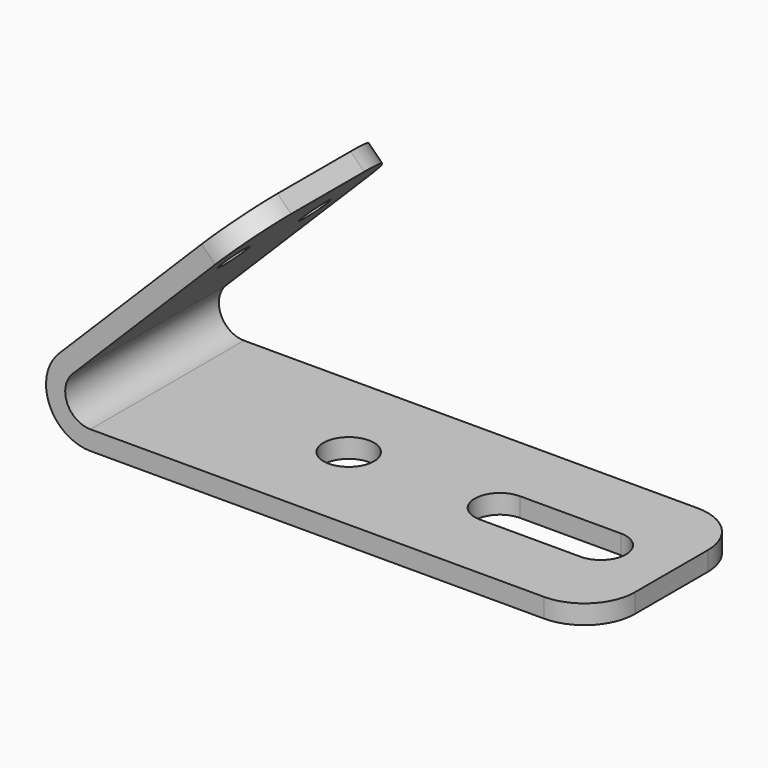
from build123d import *

# Parameters (mm, degrees)
F1_DEPTH = 9.525
F2_R     = 2.5
F3_DEPTH = 25
F4_R     = 1.5
F5_DEPTH = 1.9
F6_R     = 5


with BuildPart() as f1:
    # F0 (on Front) → F1 (new body, symmetric)
    with BuildSketch(Plane.XZ):
        with BuildLine():
            Line((0, -1.9), (0, 0))
            Line((0, 0), (-50, 0))
            ThreePointArc((-50, 0), (-52.3096988313, 1.5432914191), (-51.767766953, 4.267766953))
            Line((-51.767766953, 4.267766953), (-34.0900974233, 21.9454364826))
            Line((-34.0900974233, 21.9454364826), (-35.4336003076, 23.2889393669))
            Line((-35.4336003076, 23.2889393669), (-53.1112698372, 5.6112698372))
            ThreePointArc((-53.1112698372, 5.6112698372), (-54.065069943, 0.8161928976), (-50, -1.9))
            Line((-50, -1.9), (0, -1.9))
        make_face()
    extrude(amount=F1_DEPTH, both=True)

    # F2 (on face) → F3 (cut)
    with BuildSketch(Plane.XY):
        with Locations((-32, 0)):
            Circle(F2_R)
        with BuildLine():
            Line((-17, -2.5), (-7, -2.5))
            ThreePointArc((-7, -2.5), (-4.5, 0), (-7, 2.5))
            Line((-7, 2.5), (-17, 2.5))
            ThreePointArc((-17, 2.5), (-19.5, 0), (-17, -2.5))
        make_face()
    extrude(amount=-F3_DEPTH, mode=Mode.SUBTRACT)

    # F4 (on face) → F5 (cut, through all)
    with BuildSketch(Plane(origin=(-29.3612698372, 0, 29.3612698372), x_dir=(0, -1, 0), z_dir=(-0.7071067812, 0, 0.7071067812))):
        with Locations((-5.025, -16.0875721064)):
            Circle(F4_R)
        with Locations((5.025, -16.0875721064)):
            Circle(F4_R)
    extrude(amount=-F5_DEPTH, mode=Mode.SUBTRACT)

    # F6
    f6_edges = [f1.edges().sort_by_distance(p)[0] for p in [
        (-34.761849, -9.525, 22.617188),
        (-34.761849, 9.525, 22.617188),
        (0, -9.525, -0.95),
        (0, 9.525, -0.95),
    ]]
    fillet(f6_edges, radius=F6_R)


solid = f1.part
